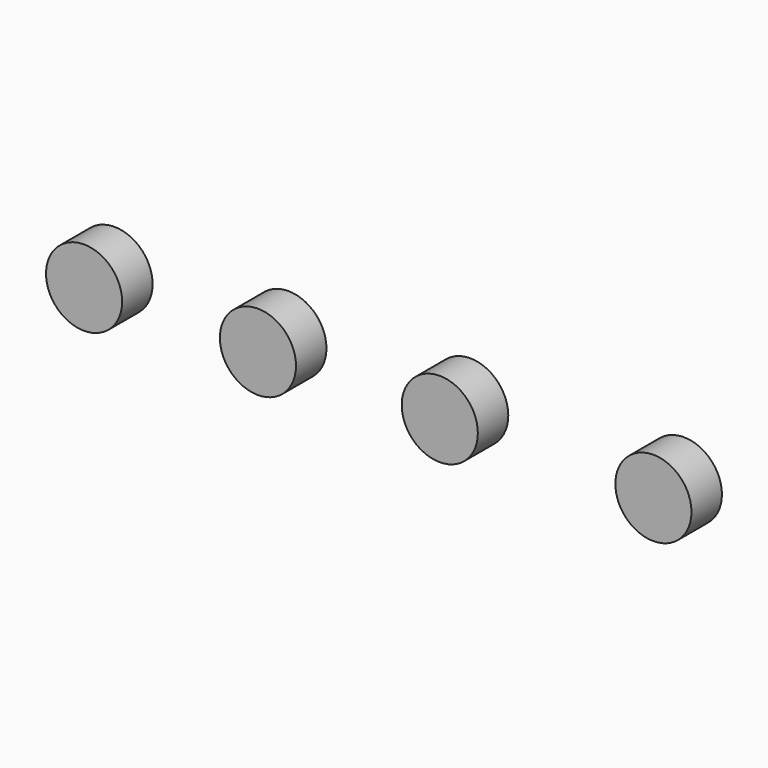
from build123d import *

# Parameters (mm, degrees)
F0_R     = 6.35
F1_DEPTH = 6.35


with BuildPart() as f1:
    # F0 (on Front) → F1 (new body)
    with BuildSketch(Plane.XZ):
        Circle(F0_R)
        with Locations((35.644267, 0)):
            Circle(F0_R)
        with Locations((-30.335546, 0)):
            Circle(F0_R)
        with Locations((-59.343912, 0)):
            Circle(F0_R)
    extrude(amount=F1_DEPTH)


solid = f1.part
